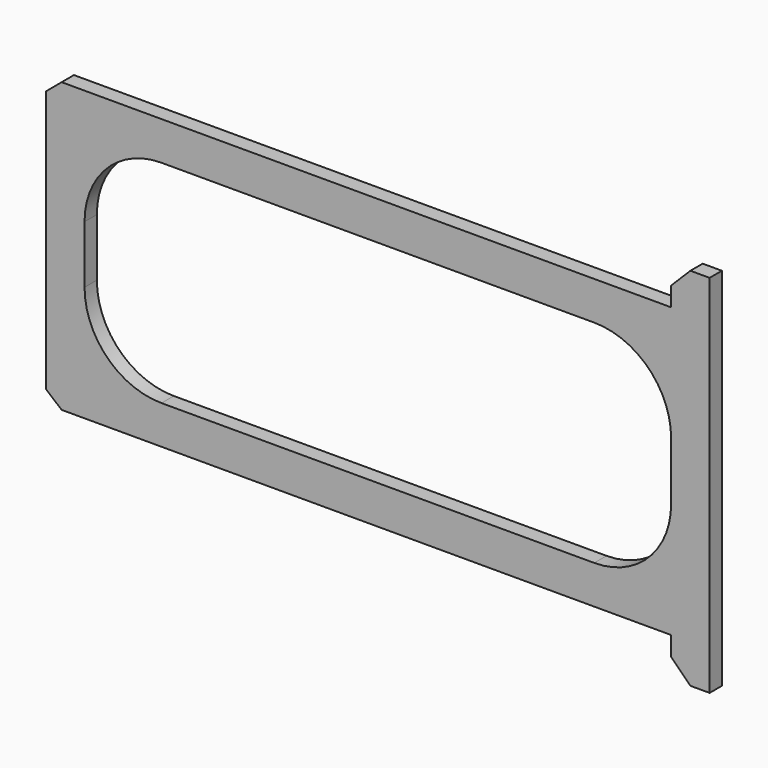
from build123d import *

# Parameters (mm, degrees)
F1_DEPTH = 5.08
F3_DEPTH = 5.081
F5_DEPTH = 5.08


with BuildPart() as f1:
    # F0 (on Front) → F1 (new body)
    with BuildSketch(Plane.XZ):
        Polygon((0, 4.306565316), (5.132364687, 0), (219.075, 0), (219.075, 95.25), (5.132364687, 95.25), (0, 90.943434684), align=None)
    extrude(amount=F1_DEPTH)

    # F2 (on face) → F3 (cut, through all)
    with BuildSketch(Plane.XZ.offset(5.08)):
        with BuildLine():
            Line((12.7, 57.15), (12.7, 38.1))
            ThreePointArc((12.7, 38.1), (20.1394877579, 20.1394877579), (38.1, 12.7))
            Line((38.1, 12.7), (180.975, 12.7))
            ThreePointArc((180.975, 12.7), (198.9355122421, 20.1394877579), (206.375, 38.1))
            Line((206.375, 38.1), (206.375, 57.15))
            ThreePointArc((206.375, 57.15), (198.9355122421, 75.1105122421), (180.975, 82.55))
            Line((180.975, 82.55), (38.1, 82.55))
            ThreePointArc((38.1, 82.55), (20.1394877579, 75.1105122421), (12.7, 57.15))
        make_face()
    extrude(amount=-F3_DEPTH, mode=Mode.SUBTRACT)

    # F4 (on face) → F5 (join)
    with BuildSketch(Plane.XZ.offset(5.08)):
        Polygon((212.725, -12.7), (219.075, -12.7), (219.075, 0), (206.375, 0), (206.375, -6.35), align=None)
        Polygon((206.375, 95.25), (219.075, 95.25), (219.075, 107.95), (212.725, 107.95), (206.375, 101.6), align=None)
        Polygon((206.375, 0), (219.075, 0), (219.075, 95.25), (206.375, 95.25), (206.375, 57.15), (206.375, 38.1), align=None)
    extrude(amount=-F5_DEPTH)


solid = f1.part
